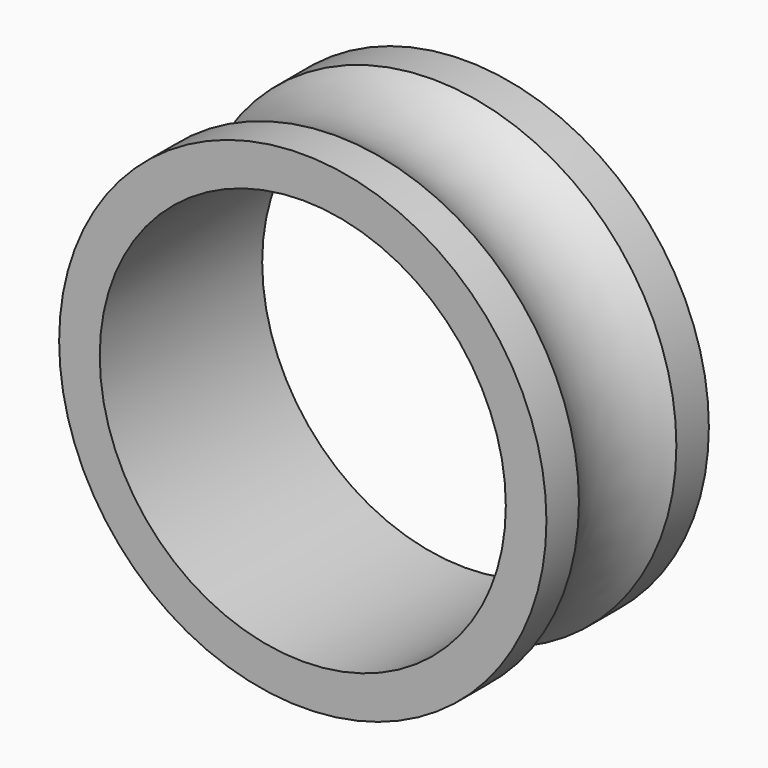
from build123d import *

# Parameters (mm, degrees)
F0_R     = 30
F0_R_2   = 25
F1_DEPTH = 12.5
F2_R     = 12.5


with BuildPart() as f1:
    # F0 (on Front) → F1 (new body, symmetric)
    with BuildSketch(Plane.XZ):
        Circle(F0_R)
        Circle(F0_R_2, mode=Mode.SUBTRACT)
    extrude(amount=F1_DEPTH, both=True)

    # F2 (on Right) → F3 (revolve, cut)
    with BuildSketch(Plane.YZ):
        with Locations((0, 40)):
            Circle(F2_R)
    revolve(axis=Axis((0, 0, 0), (0, -1, 0)), mode=Mode.SUBTRACT)


solid = f1.part
